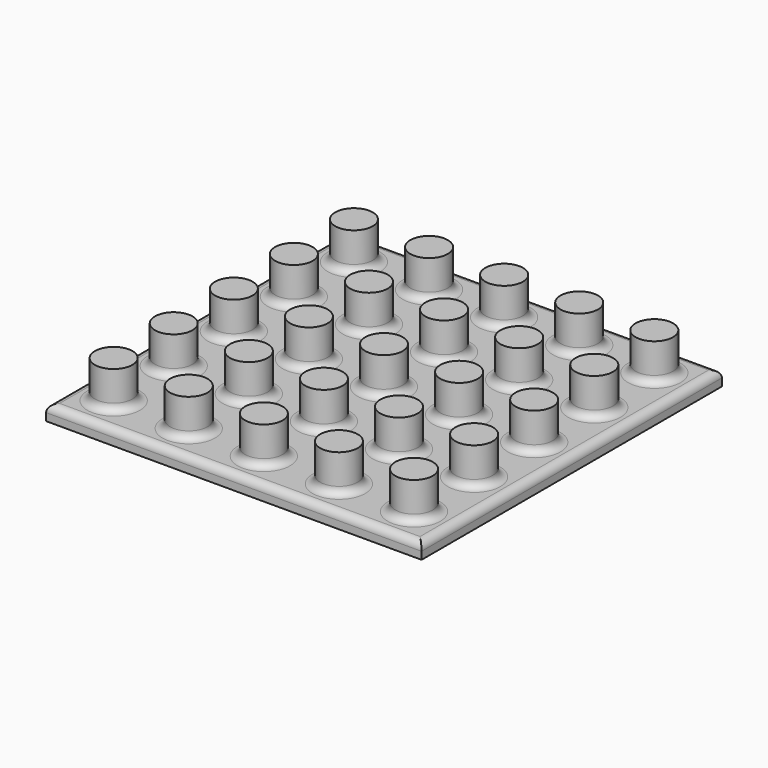
from build123d import *

# Parameters (mm, degrees)
SKETCH001_W                  = 50
SKETCH001_H                  = 50
PAD_DEPTH                    = 2
SKETCH_R                     = 2.5
PAD001_DEPTH                 = 7
SKETCH_LINEARPATTERN_2_R     = 2.5
PAD001_LINEARPATTERN_2_DEPTH = 7
SKETCH_LINEARPATTERN_3_R     = 2.5
PAD001_LINEARPATTERN_3_DEPTH = 7
SKETCH_LINEARPATTERN_4_R     = 2.5
PAD001_LINEARPATTERN_4_DEPTH = 7
SKETCH_LINEARPATTERN_5_R     = 2.5
PAD001_LINEARPATTERN_5_DEPTH = 7
LINEARPATTERN001_COUNT       = 5
LINEARPATTERN001_PITCH       = 10
FILLET_R                     = 1


with BuildPart() as part:
    # Sketch001 → Pad (new body)
    with BuildSketch(Plane.XY):
        with Locations((20, -20)):
            Rectangle(SKETCH001_W, SKETCH001_H)
    extrude(amount=PAD_DEPTH)

    # Sketch → Pad001 (join)
    with BuildSketch(Plane.XY):
        Circle(SKETCH_R)
    pad001 = extrude(amount=PAD001_DEPTH)

    # Sketch LinearPattern 2 → Pad001 LinearPattern 2 (add)
    with BuildSketch(Plane(origin=(10, 0, 0), x_dir=(1, 0, 0), z_dir=(0, 0, 1))):
        Circle(SKETCH_LINEARPATTERN_2_R)
    pad001_linearpattern_2 = extrude(amount=PAD001_LINEARPATTERN_2_DEPTH)

    # Sketch LinearPattern 3 → Pad001 LinearPattern 3 (add)
    with BuildSketch(Plane(origin=(20, 0, 0), x_dir=(1, 0, 0), z_dir=(0, 0, 1))):
        Circle(SKETCH_LINEARPATTERN_3_R)
    pad001_linearpattern_3 = extrude(amount=PAD001_LINEARPATTERN_3_DEPTH)

    # Sketch LinearPattern 4 → Pad001 LinearPattern 4 (add)
    with BuildSketch(Plane(origin=(30, 0, 0), x_dir=(1, 0, 0), z_dir=(0, 0, 1))):
        Circle(SKETCH_LINEARPATTERN_4_R)
    pad001_linearpattern_4 = extrude(amount=PAD001_LINEARPATTERN_4_DEPTH)

    # Sketch LinearPattern 5 → Pad001 LinearPattern 5 (add)
    with BuildSketch(Plane(origin=(40, 0, 0), x_dir=(1, 0, 0), z_dir=(0, 0, 1))):
        Circle(SKETCH_LINEARPATTERN_5_R)
    pad001_linearpattern_5 = extrude(amount=PAD001_LINEARPATTERN_5_DEPTH)

    # LinearPattern001: Pad001, Pad001 LinearPattern 2, Pad001 LinearPattern 3, Pad001 LinearPattern 4, Pad001 LinearPattern 5 ×5
    with Locations(*[(0, -i * LINEARPATTERN001_PITCH, 0) for i in range(1, LINEARPATTERN001_COUNT)]):
        add(pad001)
        add(pad001_linearpattern_2)
        add(pad001_linearpattern_3)
        add(pad001_linearpattern_4)
        add(pad001_linearpattern_5)

    # Fillet
    fillet_edges = [part.edges().sort_by_distance(p)[0] for p in [
        (-5, -20, 2),
        (20, 5, 2),
        (20, -45, 2),
        (45, -20, 2),
        (-2.5, -40, 2),
        (7.5, -40, 2),
        (-2.5, -30, 2),
        (7.5, -30, 2),
        (17.5, -40, 2),
        (27.5, -40, 2),
        (37.5, -40, 2),
        (17.5, -30, 2),
        (27.5, -30, 2),
        (37.5, -30, 2),
        (-2.5, -20, 2),
        (-2.5, -10, 2),
        (7.5, -20, 2),
        (7.5, -10, 2),
        (-2.5, 0, 2),
        (7.5, 0, 2),
        (17.5, -20, 2),
        (27.5, -20, 2),
        (17.5, -10, 2),
        (27.5, -10, 2),
        (37.5, -20, 2),
        (37.5, -10, 2),
        (17.5, 0, 2),
        (27.5, 0, 2),
        (37.5, 0, 2),
    ]]
    fillet(fillet_edges, radius=FILLET_R)


solid = part.part
